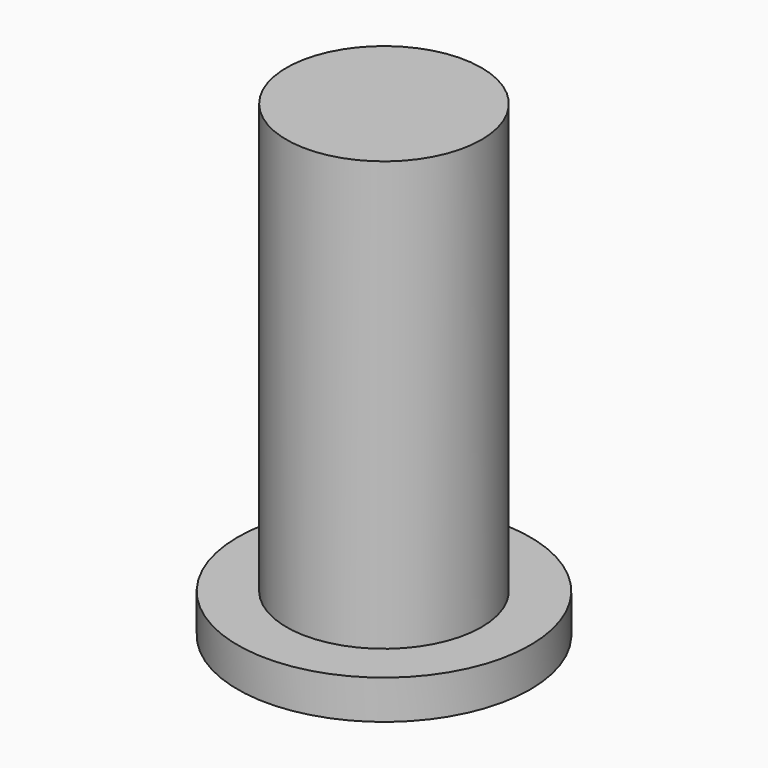
from build123d import *

# Parameters (mm, degrees)
F0_R     = 7.5
F1_DEPTH = 2
F2_R     = 5
F3_DEPTH = 22
F4_W     = 4
F4_H     = 2
F4_W_2   = 2
F4_H_2   = 4
F5_DEPTH = 1


with BuildPart() as f1:
    # F0 (on Top) → F1 (new body)
    with BuildSketch(Plane.XY):
        Circle(F0_R)
    extrude(amount=F1_DEPTH)

    # F2 (on face) → F3 (join)
    with BuildSketch(Plane.XY.offset(2)):
        Circle(F2_R)
    extrude(amount=F3_DEPTH)

    # F4 (on face) → F5 (cut)
    with BuildSketch(Plane(origin=(0, 0, 0), x_dir=(1, 0, 0), z_dir=(0, 0, -1))):
        with Locations((3, 0)):
            Rectangle(F4_W, F4_H)
        with Locations((0, -3)):
            Rectangle(F4_W_2, F4_H_2)
        Rectangle(F4_W_2, F4_H)
        with Locations((-3, 0)):
            Rectangle(F4_W, F4_H)
        with Locations((0, 3)):
            Rectangle(F4_W_2, F4_H_2)
    extrude(amount=-F5_DEPTH, mode=Mode.SUBTRACT)


solid = f1.part
